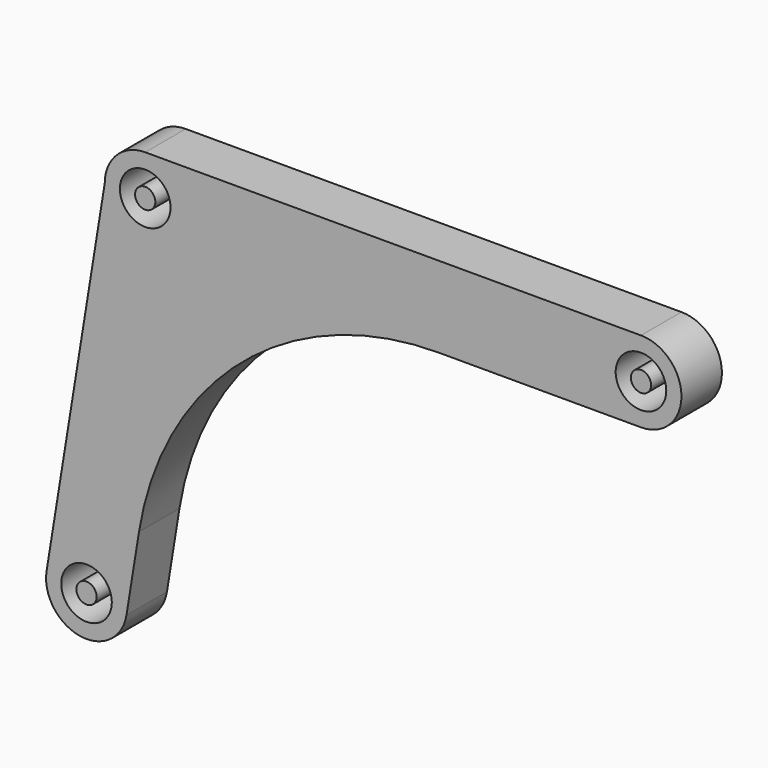
from build123d import *

# Parameters (mm, degrees)
F0_R     = 2.5
F0_R_2   = 1
F1_DEPTH = 5


with BuildPart() as f1:
    # F0 (on Front) → F1 (new body)
    with BuildSketch(Plane.XZ):
        with BuildLine():
            Line((49, 4), (0, 4))
            ThreePointArc((0, 4), (-2.828427, 2.828427), (-4, 0))
            Line((-4, 0), (-9.74885, -35.602364))
            ThreePointArc((-9.74885, -35.602364), (-6.437636, -40.18885), (-1.85115, -36.877636))
            Line((-1.85115, -36.877636), (-0.614275, -29.21773))
            ThreePointArc((-0.614275, -29.21773), (9.553044, -11.158501), (29.002104, -4))
            Line((29.002104, -4), (49, -4))
            ThreePointArc((49, -4), (53, 0), (49, 4))
        make_face()
        with Locations((-5.8, -36.24)):
            Circle(F0_R, mode=Mode.SUBTRACT)
        Circle(F0_R, mode=Mode.SUBTRACT)
        with Locations((49, 0)):
            Circle(F0_R, mode=Mode.SUBTRACT)
        Circle(F0_R_2)
        with Locations((-5.8, -36.24)):
            Circle(F0_R_2)
        with Locations((49, 0)):
            Circle(F0_R_2)
    extrude(amount=F1_DEPTH)


solid = f1.part
